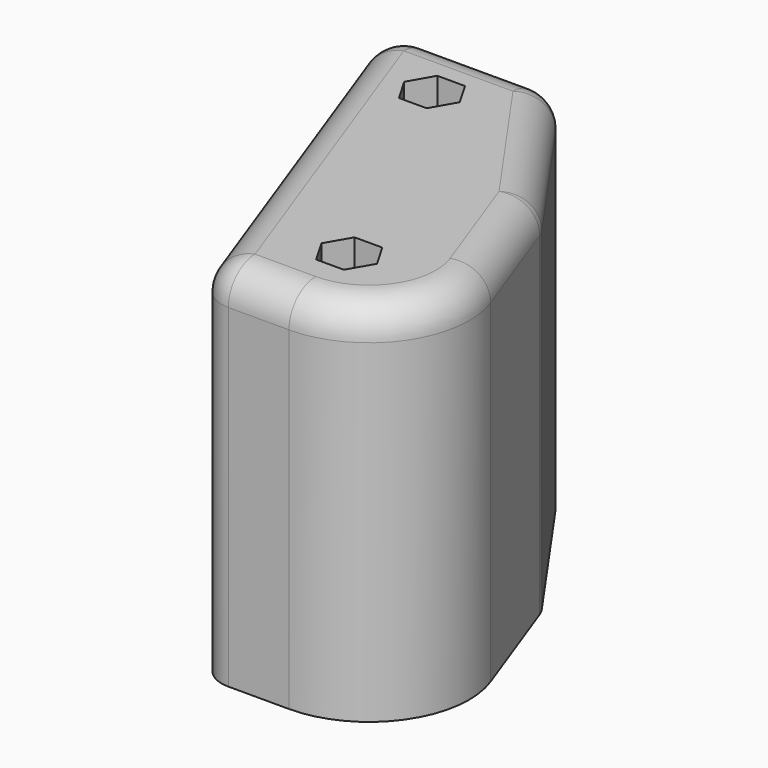
from build123d import *

# Parameters (mm, degrees)
PAD001_DEPTH    = 55
FILLET002_R     = 5
SKETCH006_R     = 2
POCKET001_DEPTH = 55.001
POCKET002_START = 30
POCKET002_DEPTH = 70


with BuildPart() as part:
    # Sketch001 → Pad001 (new body)
    with BuildSketch(Plane.XY):
        with BuildLine():
            Line((0, 0), (-22.231309, 61.08002))
            Line((-22.231309, 61.08002), (3.869698, 61.08002))
            Line((3.869698, 61.08002), (20.319194, 37.587705))
            Line((20.319194, 37.587705), (26.673169, 20.130302))
            ThreePointArc((12.57778, 0), (24.865061, 6.396353), (26.673169, 20.130302))
            Line((12.57778, 0), (0, 0))
        make_face()
    extrude(amount=PAD001_DEPTH)

    # Fillet002
    fillet002_edges = [part.edges().sort_by_distance(p)[0] for p in [
        (20.319194, 37.587705, 27.5),
        (0, 0, 27.5),
        (3.869698, 61.08002, 27.5),
        (-22.231309, 61.08002, 27.5),
        (-11.115655, 30.54001, 55),
        (-9.180806, 61.08002, 55),
        (12.094446, 49.333863, 55),
        (23.496182, 28.859003, 55),
        (24.865061, 6.396353, 55),
        (6.28889, 0, 55),
    ]]
    fillet(fillet002_edges, radius=FILLET002_R)

    # Sketch006 → Pocket001 (cut, through all)
    with BuildSketch(Plane.XY):
        with Locations((12, 12)):
            Circle(SKETCH006_R)
        with Locations((-6, 50)):
            Circle(SKETCH006_R)
    extrude(amount=POCKET001_DEPTH, mode=Mode.SUBTRACT)

    # Sketch007 → Pocket002 (cut)
    with BuildSketch(Plane.XY.offset(POCKET002_START)):
        Polygon((14.078461, 15.6), (9.921539, 15.6), (7.843078, 12), (9.921539, 8.4), (14.078461, 8.4), (16.156922, 12), align=None)
        Polygon((-1.843078, 50), (-3.921539, 53.6), (-8.078461, 53.6), (-10.156922, 50), (-8.078461, 46.4), (-3.921539, 46.4), align=None)
    extrude(amount=POCKET002_DEPTH, mode=Mode.SUBTRACT)


solid = part.part
